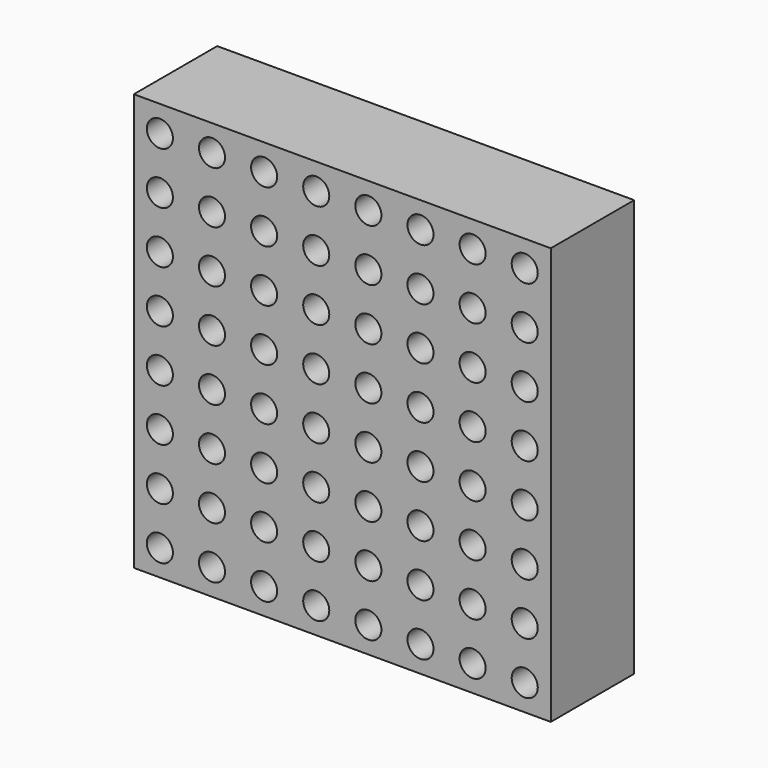
from build123d import *

# Parameters (mm, degrees)
F0_W     = 101.6
F0_H     = 101.6
F0_R     = 3.175
F1_DEPTH = 25.4


with BuildPart() as f1:
    # F0 (on Front) → F1 (new body)
    with BuildSketch(Plane.XZ):
        with Locations((-50.8, 50.8)):
            Rectangle(F0_W, F0_H)
        with Locations((-95.25, 6.35)):
            Circle(F0_R, mode=Mode.SUBTRACT)
        with Locations((-82.55, 6.35)):
            Circle(F0_R, mode=Mode.SUBTRACT)
        with Locations((-95.25, 19.05)):
            Circle(F0_R, mode=Mode.SUBTRACT)
        with Locations((-82.55, 19.05)):
            Circle(F0_R, mode=Mode.SUBTRACT)
        with Locations((-69.85, 6.35)):
            Circle(F0_R, mode=Mode.SUBTRACT)
        with Locations((-57.15, 6.35)):
            Circle(F0_R, mode=Mode.SUBTRACT)
        with Locations((-69.85, 19.05)):
            Circle(F0_R, mode=Mode.SUBTRACT)
        with Locations((-57.15, 19.05)):
            Circle(F0_R, mode=Mode.SUBTRACT)
        with Locations((-95.25, 31.75)):
            Circle(F0_R, mode=Mode.SUBTRACT)
        with Locations((-82.55, 31.75)):
            Circle(F0_R, mode=Mode.SUBTRACT)
        with Locations((-95.25, 44.45)):
            Circle(F0_R, mode=Mode.SUBTRACT)
        with Locations((-82.55, 44.45)):
            Circle(F0_R, mode=Mode.SUBTRACT)
        with Locations((-69.85, 31.75)):
            Circle(F0_R, mode=Mode.SUBTRACT)
        with Locations((-57.15, 31.75)):
            Circle(F0_R, mode=Mode.SUBTRACT)
        with Locations((-69.85, 44.45)):
            Circle(F0_R, mode=Mode.SUBTRACT)
        with Locations((-57.15, 44.45)):
            Circle(F0_R, mode=Mode.SUBTRACT)
        with Locations((-44.45, 6.35)):
            Circle(F0_R, mode=Mode.SUBTRACT)
        with Locations((-31.75, 6.35)):
            Circle(F0_R, mode=Mode.SUBTRACT)
        with Locations((-44.45, 19.05)):
            Circle(F0_R, mode=Mode.SUBTRACT)
        with Locations((-31.75, 19.05)):
            Circle(F0_R, mode=Mode.SUBTRACT)
        with Locations((-19.05, 6.35)):
            Circle(F0_R, mode=Mode.SUBTRACT)
        with Locations((-6.35, 6.35)):
            Circle(F0_R, mode=Mode.SUBTRACT)
        with Locations((-19.05, 19.05)):
            Circle(F0_R, mode=Mode.SUBTRACT)
        with Locations((-6.35, 19.05)):
            Circle(F0_R, mode=Mode.SUBTRACT)
        with Locations((-44.45, 31.75)):
            Circle(F0_R, mode=Mode.SUBTRACT)
        with Locations((-31.75, 31.75)):
            Circle(F0_R, mode=Mode.SUBTRACT)
        with Locations((-44.45, 44.45)):
            Circle(F0_R, mode=Mode.SUBTRACT)
        with Locations((-31.75, 44.45)):
            Circle(F0_R, mode=Mode.SUBTRACT)
        with Locations((-19.05, 31.75)):
            Circle(F0_R, mode=Mode.SUBTRACT)
        with Locations((-6.35, 31.75)):
            Circle(F0_R, mode=Mode.SUBTRACT)
        with Locations((-19.05, 44.45)):
            Circle(F0_R, mode=Mode.SUBTRACT)
        with Locations((-6.35, 44.45)):
            Circle(F0_R, mode=Mode.SUBTRACT)
        with Locations((-95.25, 57.15)):
            Circle(F0_R, mode=Mode.SUBTRACT)
        with Locations((-82.55, 57.15)):
            Circle(F0_R, mode=Mode.SUBTRACT)
        with Locations((-95.25, 69.85)):
            Circle(F0_R, mode=Mode.SUBTRACT)
        with Locations((-82.55, 69.85)):
            Circle(F0_R, mode=Mode.SUBTRACT)
        with Locations((-69.85, 57.15)):
            Circle(F0_R, mode=Mode.SUBTRACT)
        with Locations((-57.15, 57.15)):
            Circle(F0_R, mode=Mode.SUBTRACT)
        with Locations((-69.85, 69.85)):
            Circle(F0_R, mode=Mode.SUBTRACT)
        with Locations((-57.15, 69.85)):
            Circle(F0_R, mode=Mode.SUBTRACT)
        with Locations((-95.25, 82.55)):
            Circle(F0_R, mode=Mode.SUBTRACT)
        with Locations((-82.55, 82.55)):
            Circle(F0_R, mode=Mode.SUBTRACT)
        with Locations((-95.25, 95.25)):
            Circle(F0_R, mode=Mode.SUBTRACT)
        with Locations((-82.55, 95.25)):
            Circle(F0_R, mode=Mode.SUBTRACT)
        with Locations((-69.85, 82.55)):
            Circle(F0_R, mode=Mode.SUBTRACT)
        with Locations((-57.15, 82.55)):
            Circle(F0_R, mode=Mode.SUBTRACT)
        with Locations((-69.85, 95.25)):
            Circle(F0_R, mode=Mode.SUBTRACT)
        with Locations((-57.15, 95.25)):
            Circle(F0_R, mode=Mode.SUBTRACT)
        with Locations((-44.45, 57.15)):
            Circle(F0_R, mode=Mode.SUBTRACT)
        with Locations((-31.75, 57.15)):
            Circle(F0_R, mode=Mode.SUBTRACT)
        with Locations((-44.45, 69.85)):
            Circle(F0_R, mode=Mode.SUBTRACT)
        with Locations((-31.75, 69.85)):
            Circle(F0_R, mode=Mode.SUBTRACT)
        with Locations((-19.05, 57.15)):
            Circle(F0_R, mode=Mode.SUBTRACT)
        with Locations((-6.35, 57.15)):
            Circle(F0_R, mode=Mode.SUBTRACT)
        with Locations((-19.05, 69.85)):
            Circle(F0_R, mode=Mode.SUBTRACT)
        with Locations((-6.35, 69.85)):
            Circle(F0_R, mode=Mode.SUBTRACT)
        with Locations((-44.45, 82.55)):
            Circle(F0_R, mode=Mode.SUBTRACT)
        with Locations((-31.75, 82.55)):
            Circle(F0_R, mode=Mode.SUBTRACT)
        with Locations((-44.45, 95.25)):
            Circle(F0_R, mode=Mode.SUBTRACT)
        with Locations((-31.75, 95.25)):
            Circle(F0_R, mode=Mode.SUBTRACT)
        with Locations((-19.05, 82.55)):
            Circle(F0_R, mode=Mode.SUBTRACT)
        with Locations((-6.35, 82.55)):
            Circle(F0_R, mode=Mode.SUBTRACT)
        with Locations((-19.05, 95.25)):
            Circle(F0_R, mode=Mode.SUBTRACT)
        with Locations((-6.35, 95.25)):
            Circle(F0_R, mode=Mode.SUBTRACT)
    extrude(amount=F1_DEPTH)


solid = f1.part
